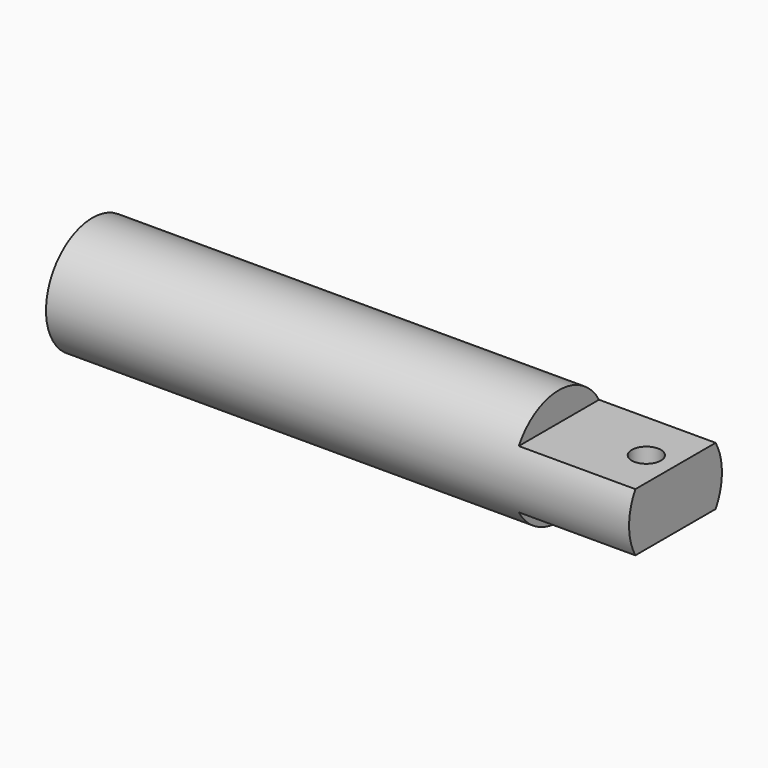
from build123d import *

# Parameters (mm, degrees)
F0_R     = 12.6365
F1_DEPTH = 63.5
F2_W     = 31.733287
F2_H     = 15.942303
F2_H_2   = 11.517498
F3_DEPTH = 254
F4_R     = 3.175
F5_DEPTH = 25.4


with BuildPart() as f1:
    # F0 (on Right) → F1 (new body, symmetric)
    with BuildSketch(Plane.YZ):
        Circle(F0_R)
    extrude(amount=F1_DEPTH, both=True)

    # F2 (on Front) → F3 (cut, symmetric)
    with BuildSketch(Plane.XZ):
        with Locations((53.966644, 14.321151)):
            Rectangle(F2_W, F2_H)
        with Locations((53.966644, -12.108749)):
            Rectangle(F2_W, F2_H_2)
    extrude(amount=F3_DEPTH, both=True, mode=Mode.SUBTRACT)

    # F4 (on face) → F5 (cut)
    with BuildSketch(Plane.XY.offset(6.35)):
        with Locations((57.15, 0)):
            Circle(F4_R)
    extrude(amount=-F5_DEPTH, mode=Mode.SUBTRACT)

    # F6 (on Top) → F7 (revolve, cut)
    with BuildSketch(Plane.XY):
        with BuildLine():
            ThreePointArc((-57.15, 0), (-58.851477, 6.35), (-63.5, 10.998523))
            Line((-63.5, 10.998523), (-63.5, 0))
            Line((-63.5, 0), (-57.15, 0))
        make_face()
    revolve(axis=Axis((-60.325, 0, 0), (-1, 0, 0)), mode=Mode.SUBTRACT)


solid = f1.part
